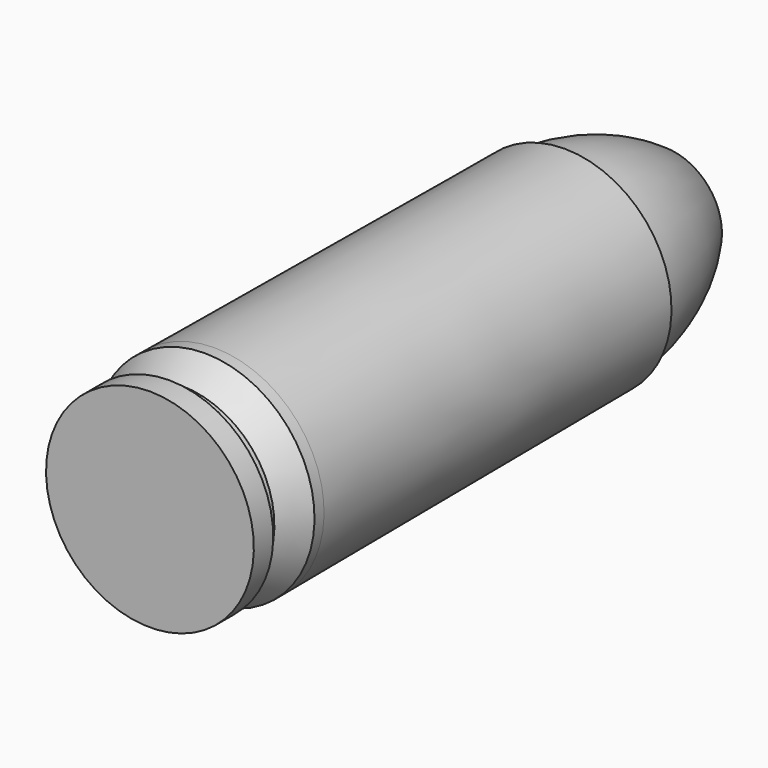
from build123d import *


with BuildPart() as f1:
    # F0 (on Right) → F1 (revolve)
    with BuildSketch(Plane.YZ):
        Polygon((0, 6.5405), (0, 0), (5.08, 0), (5.08, 6.8961), (4.323409, 6.900981), (2.4892, 5.842), (1.524, 5.842), (1.524, 6.5405), align=None)
        Polygon((5.08, 6.8961), (5.08, 0), (32.639, 0), (32.639, 6.7183), align=None)
    revolve(axis=Axis((0, 18.390228, 0), (0, -1, 0)))

    # F2 (on Right) → F3 (revolve)
    with BuildSketch(Plane.YZ):
        with BuildLine():
            ThreePointArc((40.513, 3.592921), (36.774285, 5.545277), (32.639, 6.3754))
            Line((32.639, 6.3754), (32.639, 0))
            Line((32.639, 0), (40.513, 0))
            Line((40.513, 0), (40.513, 3.592921))
        make_face()
    revolve(axis=Axis((0, 36.576, 0), (0, -1, 0)))


solid = f1.part
